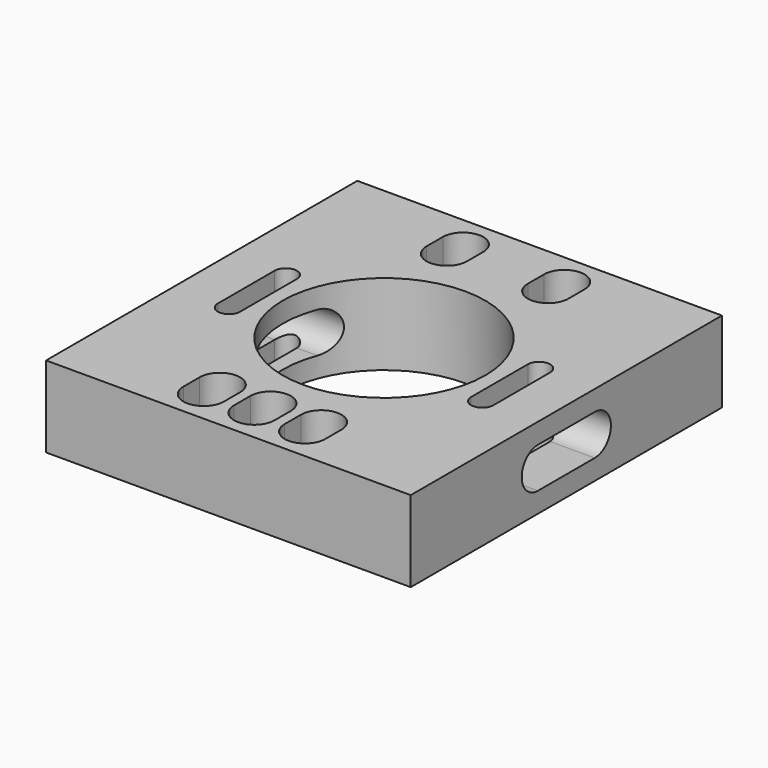
from build123d import *

# Parameters (mm, degrees)
SKETCH_W             = 18
SKETCH_H             = 19.2
PAD_DEPTH            = 4
POCKET_DEPTH         = 0.001
POCKET_DEPTH_BACK    = -4.001
POCKET001_DEPTH      = 0.001
POCKET001_DEPTH_BACK = -18.001
SKETCH003_R          = 5
POCKET002_DEPTH      = 4.001


with BuildPart() as part:
    # Sketch → Pad (new body)
    with BuildSketch(Plane.XY):
        with Locations((9, 9.6)):
            Rectangle(SKETCH_W, SKETCH_H)
    extrude(amount=PAD_DEPTH)

    # Sketch001 → Pocket (cut, two sides)
    with BuildSketch(Plane.XY) as pocket_sk:
        with BuildLine():
            ThreePointArc((3.3, 11.35), (2.75, 11.9), (2.2, 11.35))
            Line((2.2, 11.35), (2.2, 7.85))
            ThreePointArc((2.2, 7.85), (2.75, 7.3), (3.3, 7.85))
            Line((3.3, 7.85), (3.3, 11.35))
        make_face()
        with BuildLine():
            ThreePointArc((15.8, 11.35), (15.25, 11.9), (14.7, 11.35))
            Line((14.7, 11.35), (14.7, 7.85))
            ThreePointArc((14.7, 7.85), (15.25, 7.3), (15.8, 7.85))
            Line((15.8, 7.85), (15.8, 11.35))
        make_face()
        with BuildLine():
            ThreePointArc((5.5, 16.6), (6.5, 15.6), (7.5, 16.6))
            Line((7.5, 16.6), (7.5, 17.6))
            ThreePointArc((7.5, 17.6), (6.5, 18.6), (5.5, 17.6))
            Line((5.5, 17.6), (5.5, 16.6))
        make_face()
        with BuildLine():
            ThreePointArc((10.5, 16.6), (11.5, 15.6), (12.5, 16.6))
            Line((12.5, 16.6), (12.5, 17.6))
            ThreePointArc((12.5, 17.6), (11.5, 18.6), (10.5, 17.6))
            Line((10.5, 17.6), (10.5, 16.6))
        make_face()
        with BuildLine():
            ThreePointArc((12.5, 2.6), (11.5, 3.6), (10.5, 2.6))
            Line((10.5, 2.6), (10.5, 1.6))
            ThreePointArc((10.5, 1.6), (11.5, 0.6), (12.5, 1.6))
            Line((12.5, 1.6), (12.5, 2.6))
        make_face()
        with BuildLine():
            ThreePointArc((10, 2.6), (9, 3.6), (8, 2.6))
            Line((8, 2.6), (8, 1.6))
            ThreePointArc((8, 1.6), (9, 0.6), (10, 1.6))
            Line((10, 1.6), (10, 2.6))
        make_face()
        with BuildLine():
            ThreePointArc((7.5, 2.6), (6.5, 3.6), (5.5, 2.6))
            Line((5.5, 2.6), (5.5, 1.6))
            ThreePointArc((5.5, 1.6), (6.5, 0.6), (7.5, 1.6))
            Line((7.5, 1.6), (7.5, 2.6))
        make_face()
    extrude(amount=-POCKET_DEPTH, mode=Mode.SUBTRACT)
    extrude(pocket_sk.sketch, amount=-POCKET_DEPTH_BACK, mode=Mode.SUBTRACT)

    # Sketch002 → Pocket001 (cut, two sides)
    with BuildSketch(Plane.YZ) as pocket001_sk:
        with BuildLine():
            ThreePointArc((7.85, 3), (6.85, 2), (7.85, 1))
            Line((7.85, 1), (11.35, 1))
            ThreePointArc((11.35, 1), (12.35, 2), (11.35, 3))
            Line((11.35, 3), (7.85, 3))
        make_face()
    extrude(amount=-POCKET001_DEPTH, mode=Mode.SUBTRACT)
    extrude(pocket001_sk.sketch, amount=-POCKET001_DEPTH_BACK, mode=Mode.SUBTRACT)

    # Sketch003 (on DatumPlane) → Pocket002 (cut, through all)
    with BuildSketch(Plane.XY.offset(4)):
        with Locations((9, 9.6)):
            Circle(SKETCH003_R)
    extrude(amount=-POCKET002_DEPTH, mode=Mode.SUBTRACT)


solid = part.part
